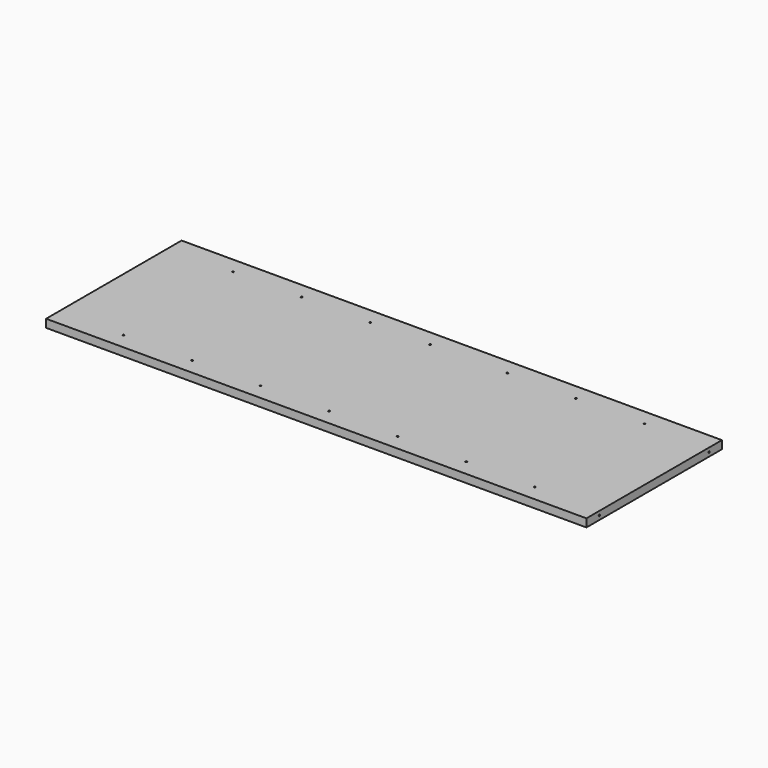
from build123d import *

# Parameters (mm, degrees)
F0_W     = 670
F0_H     = 210
F1_DEPTH = 10
F3_D     = 2
F5_D     = 2
F5_DEPTH = 12
F5_TIP   = 0.600860619
F7_D     = 2
F7_DEPTH = 12
F7_TIP   = 0.600860619


with BuildPart() as f1:
    # F0 (on Top) → F1 (new body)
    with BuildSketch(Plane.XY):
        with Locations((-335, -105)):
            Rectangle(F0_W, F0_H)
    extrude(amount=F1_DEPTH)

    # F3 (through all)
    with Locations(Plane.XY.offset(10)):
        with Locations((-590, -190), (-505, -190), (-420, -190), (-335, -190), (-250, -190), (-165, -190), (-80, -190), (-80, -20), (-165, -20), (-250, -20), (-345.7464873791, -20), (-420, -20), (-505, -20), (-590, -20)):
            Hole(F3_D / 2)

    # F5
    with Locations(Plane.YZ):
        with Locations((-190, 5), (-20, 5)):
            Hole(F5_D / 2, depth=F5_DEPTH)
            with Locations((0, 0, -(F5_DEPTH + F5_TIP / 2))):  # 118° drill point
                Cone(0, F5_D / 2, F5_TIP, mode=Mode.SUBTRACT)

    # F7
    with Locations(Plane(origin=(-670, 0, 0), x_dir=(0, -1, 0), z_dir=(-1, 0, 0))):
        with Locations((20, 5), (190, 5)):
            Hole(F7_D / 2, depth=F7_DEPTH)
            with Locations((0, 0, -(F7_DEPTH + F7_TIP / 2))):  # 118° drill point
                Cone(0, F7_D / 2, F7_TIP, mode=Mode.SUBTRACT)


solid = f1.part
